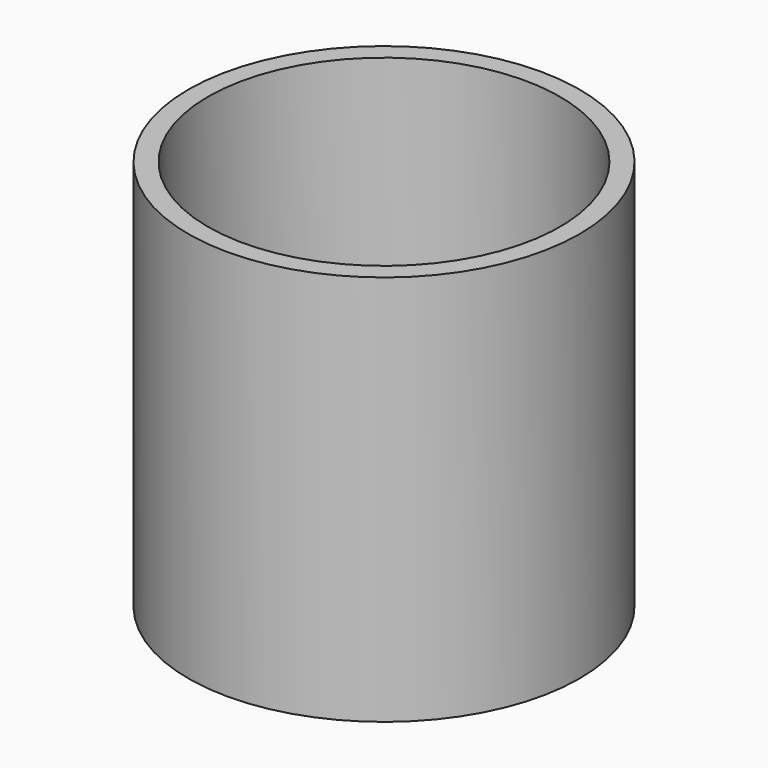
from build123d import *


with BuildPart() as f1:
    # F0 (on Front) → F1 (revolve)
    with BuildSketch(Plane.XZ):
        Polygon((-5, 0), (0, 0), (0, 5), (0, 50), (-5, 50), align=None)
        Polygon((-10, 0), (-5, 0), (-5, 50), (-5, 100), (-10, 100), align=None)
    revolve(axis=Axis((40, 0, 2.5), (0, 0, 1)))


solid = f1.part
